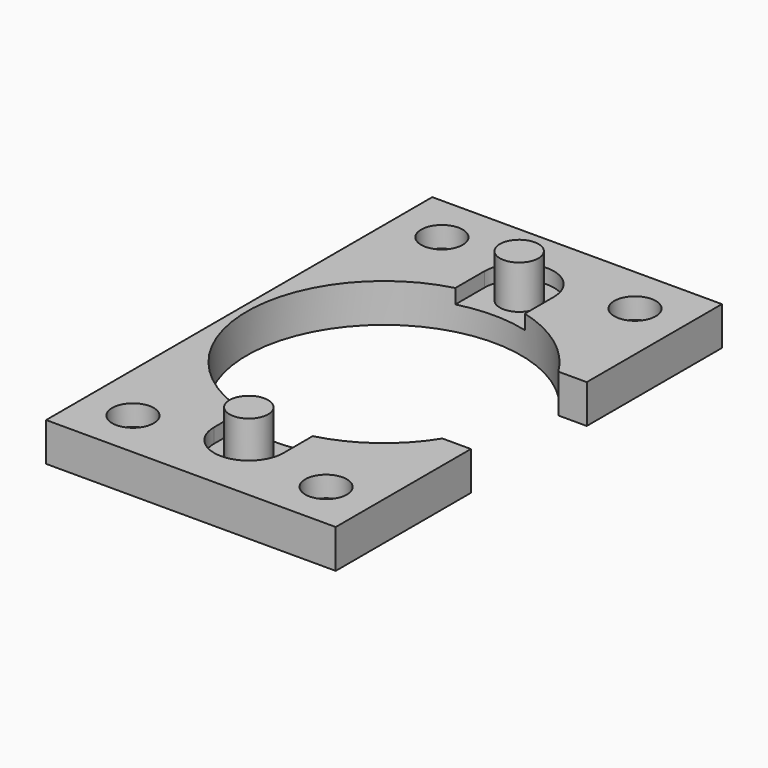
from build123d import *

# Parameters (mm, degrees)
PAD_DEPTH        = 4
POCKET_DEPTH     = 1.5
SKETCH003_R      = 2
PAD001_DEPTH     = 7
HOLE_D           = 4.3
HOLE_DEPTH       = 25
HOLE_CSINK_D     = 8
HOLE_CSINK_ANGLE = 90


with BuildPart() as part:
    # Sketch → Pad (new body)
    with BuildSketch(Plane.XY):
        with BuildLine():
            ThreePointArc((12.057778, 7.5), (-14.2, 0), (12.057778, -7.5))
            Line((15, -7.5), (12.057778, -7.5))
            Line((15, -25), (15, -7.5))
            Line((-15, -25), (15, -25))
            Line((-15, 25), (-15, -25))
            Line((15, 25), (-15, 25))
            Line((15, 7.5), (15, 25))
            Line((12.057778, 7.5), (15, 7.5))
        make_face()
    extrude(amount=PAD_DEPTH)

    # Sketch002 → Pocket (cut)
    with BuildSketch(Plane.XY.offset(4)):
        with BuildLine():
            ThreePointArc((3.6, 17.5), (0, 21.1), (-3.6, 17.5))
            Line((-3.6, 17.5), (-3.6, -17.5))
            ThreePointArc((-3.6, -17.5), (0, -21.1), (3.6, -17.5))
            Line((3.6, -17.5), (3.6, 17.5))
        make_face()
    extrude(amount=-POCKET_DEPTH, mode=Mode.SUBTRACT)

    # Sketch003 → Pad001 (join)
    with BuildSketch(Plane.XY):
        with Locations((0, 17.5)):
            Circle(SKETCH003_R)
        with Locations((0, -17.5)):
            Circle(SKETCH003_R)
    extrude(amount=PAD001_DEPTH)

    # Hole
    with Locations(Plane(origin=(0, 0, 0), x_dir=(1, 0, 0), z_dir=(0, 0, -1))):
        with Locations((-10, -20), (10, -20), (10, 20), (-10, 20)):
            CounterSinkHole(HOLE_D / 2, HOLE_CSINK_D / 2, depth=HOLE_DEPTH, counter_sink_angle=HOLE_CSINK_ANGLE)


solid = part.part
